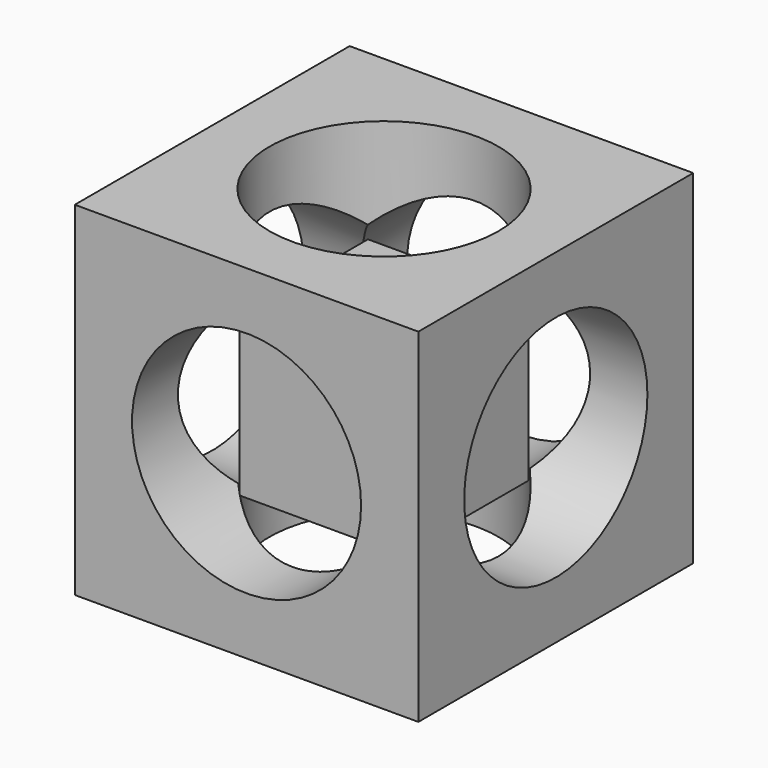
from build123d import *

# Parameters (mm, degrees)
F0_W     = 60
F0_H     = 60
F0_R     = 20
F1_DEPTH = 60
F2_R     = 20
F3_DEPTH = 30
F4_R     = 20
F5_DEPTH = 30
F6_START = 14
F0_W_2   = 28
F0_H_2   = 28
F6_DEPTH = 28


with BuildPart() as f1:
    # F0 (on Top) → F1 (new body)
    with BuildSketch(Plane.XY):
        Rectangle(F0_W, F0_H)
        Circle(F0_R, mode=Mode.SUBTRACT)
    extrude(amount=F1_DEPTH)

    # F2 (on Right) → F3 (cut, symmetric)
    with BuildSketch(Plane.YZ):
        with Locations((0, 30)):
            Circle(F2_R)
    extrude(amount=F3_DEPTH, both=True, mode=Mode.SUBTRACT)

    # F4 (on Front) → F5 (cut, symmetric)
    with BuildSketch(Plane.XZ):
        with Locations((0, 30)):
            Circle(F4_R)
    extrude(amount=F5_DEPTH, both=True, mode=Mode.SUBTRACT)


with BuildPart() as f6:
    # F0 (on Top) → F6 (new body)
    with BuildSketch(Plane.XY.offset(F6_START)):
        Rectangle(F0_W_2, F0_H_2)
    extrude(amount=F6_DEPTH)


solid = Compound([f1.part, f6.part])
